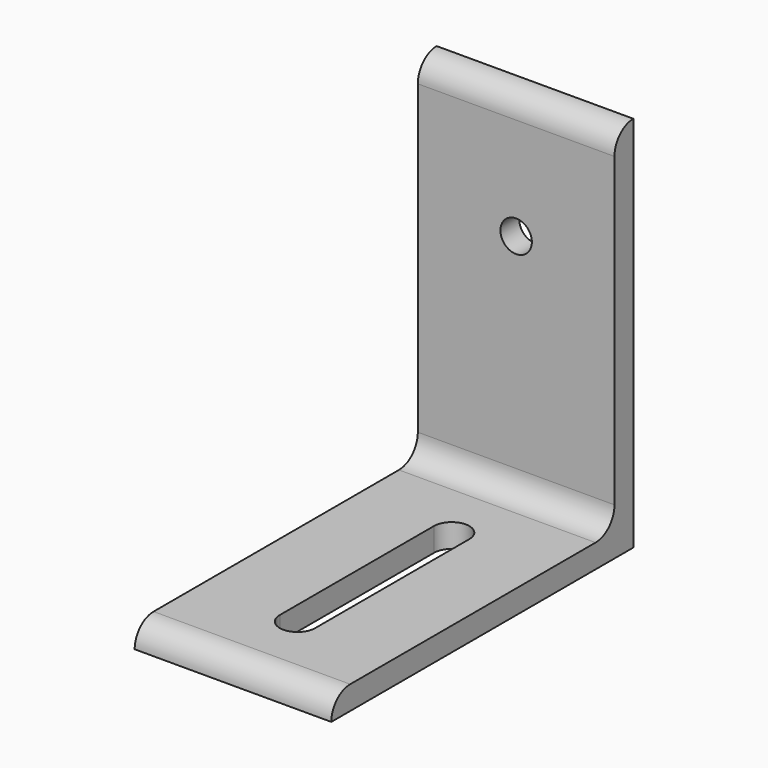
from build123d import *

# Parameters (mm, degrees)
F1_DEPTH = 39.6875
F2_R     = 6.35
F3_DEPTH = 25.4
F4_W     = 14.2875
F4_H     = 77.7875
F5_DEPTH = 25.4


with BuildPart() as f1:
    # F0 (on Right) → F1 (new body, symmetric)
    with BuildSketch(Plane.YZ):
        with BuildLine():
            Line((0, 0), (0, 152.4))
            ThreePointArc((0, 152.4), (-6.7351920908, 149.6101920908), (-9.525, 142.875))
            Line((-9.525, 142.875), (-9.525, 19.05))
            ThreePointArc((-9.525, 19.05), (-12.3148079092, 12.3148079092), (-19.05, 9.525))
            Line((-19.05, 9.525), (-142.875, 9.525))
            ThreePointArc((-142.875, 9.525), (-149.6101920908, 6.7351920908), (-152.4, 0))
            Line((-152.4, 0), (0, 0))
        make_face()
    extrude(amount=F1_DEPTH, both=True)

    # F2 (on face) → F3 (cut)
    with BuildSketch(Plane(origin=(0, 0, 0), x_dir=(-1, 0, 0), z_dir=(0, 1, 0))):
        with Locations((0, 101.6)):
            Circle(F2_R)
    extrude(amount=-F3_DEPTH, mode=Mode.SUBTRACT)

    # F4 (on face) → F5 (cut)
    with BuildSketch(Plane(origin=(0, 0, 0), x_dir=(1, 0, 0), z_dir=(0, 0, -1))):
        with Locations((0, 80.9625)):
            Rectangle(F4_W, F4_H)
        with BuildLine():
            Line((-7.14375, 119.85625), (7.14375, 119.85625))
            ThreePointArc((7.14375, 119.85625), (0, 127), (-7.14375, 119.85625))
        make_face()
        with BuildLine():
            ThreePointArc((-7.14375, 42.06875), (0, 34.925), (7.14375, 42.06875))
            Line((7.14375, 42.06875), (-7.14375, 42.06875))
        make_face()
    extrude(amount=-F5_DEPTH, mode=Mode.SUBTRACT)


solid = f1.part
